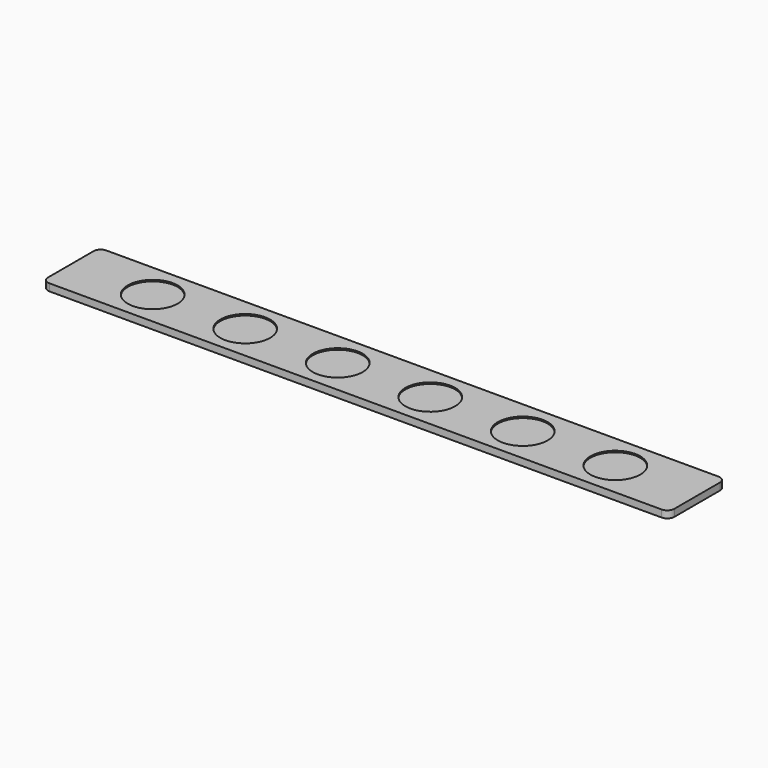
from build123d import *

# Parameters (mm, degrees)
SKETCH_W            = 440
SKETCH_H            = 50
PAD_DEPTH           = 5
SKETCH001_R         = 17.5
POCKET_DEPTH        = 1
FILLET_R            = 5
LINEARPATTERN_COUNT = 6
LINEARPATTERN_PITCH = 65


with BuildPart() as part:
    # Sketch → Pad (new body)
    with BuildSketch(Plane.XY):
        with Locations((147.117165, 35.792885)):
            Rectangle(SKETCH_W, SKETCH_H)
    extrude(amount=PAD_DEPTH)

    # Sketch001 (on Face6 of Pad) → Pocket (cut)
    with BuildSketch(Plane.XY.offset(5)):
        with Locations((-15.382835, 35.792885)):
            Circle(SKETCH001_R)
    pocket = extrude(amount=-POCKET_DEPTH, mode=Mode.SUBTRACT)

    # Fillet
    fillet_edges = [part.edges().sort_by_distance(p)[0] for p in [
        (-72.882835, 10.792885, 2.5),
        (367.117165, 10.792885, 2.5),
        (367.117165, 60.792885, 2.5),
        (-72.882835, 60.792885, 2.5),
    ]]
    fillet(fillet_edges, radius=FILLET_R)

    # LinearPattern: Pocket ×6
    with Locations(*[(i * LINEARPATTERN_PITCH, 0, 0) for i in range(1, LINEARPATTERN_COUNT)]):
        add(pocket, mode=Mode.SUBTRACT)


solid = part.part
